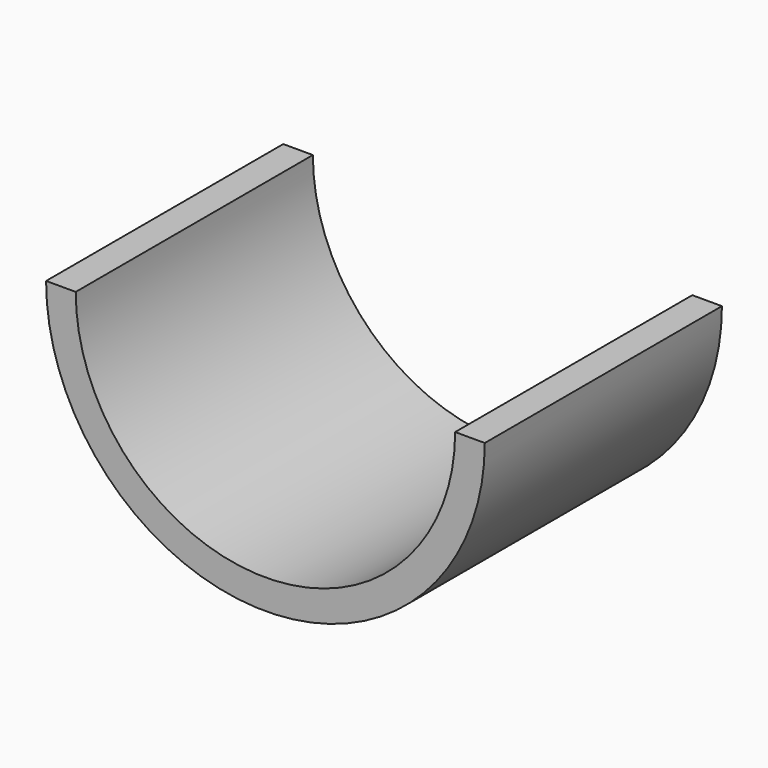
from build123d import *

# Parameters (mm, degrees)
PAD_DEPTH = 50


with BuildPart() as part:
    # Sketch → Pad (new body)
    with BuildSketch(Plane.XZ):
        with BuildLine():
            ThreePointArc((-37, 0), (0, -37), (37, 0))
            Line((32, 0), (37, 0))
            ThreePointArc((-32, 0), (0, -32), (32, 0))
            Line((-37, 0), (-32, 0))
        make_face()
    extrude(amount=PAD_DEPTH)


solid = part.part
